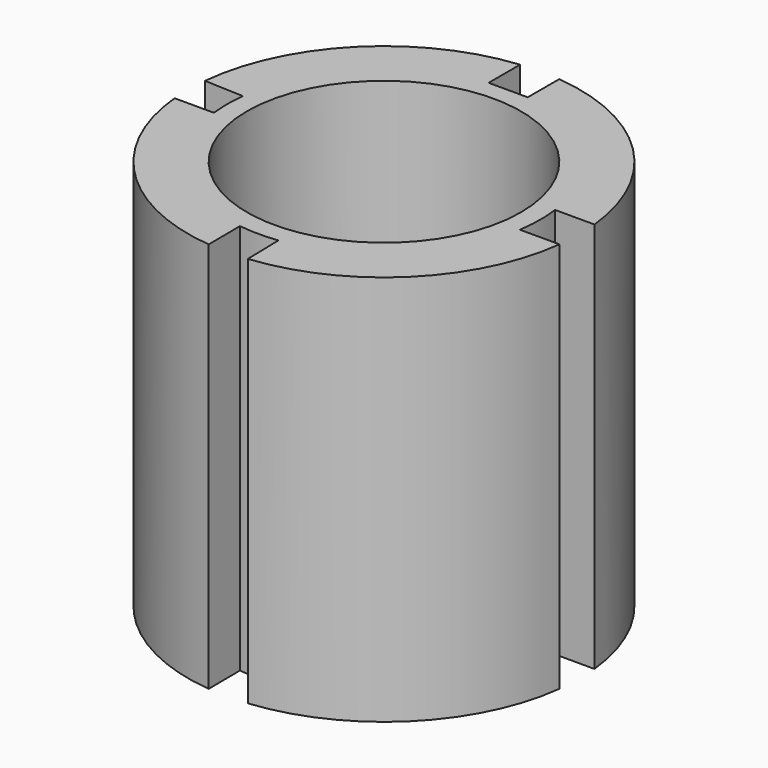
from build123d import *

# Parameters (mm, degrees)
F1_DEPTH = 50
F2_R     = 35
F3_DEPTH = 200


with BuildPart() as f1:
    # F0 (on Top) → F1 (new body, symmetric)
    with BuildSketch(Plane.XY):
        with BuildLine():
            Line((5, 39.68627), (-5, 39.68627))
            ThreePointArc((-5, 39.68627), (-28.427655, 28.140156), (-39.735042, 4.596351))
            ThreePointArc((-39.735042, 4.596351), (-39.999989, -0.030145), (-39.728069, -4.656237))
            ThreePointArc((-39.728069, -4.656237), (-28.434455, -28.133286), (-5.078989, -39.676238))
            ThreePointArc((-5.078989, -39.676238), (-0.14475, -39.999738), (4.791701, -39.711958))
            ThreePointArc((4.791701, -39.711958), (27.854373, -28.707732), (39.54933, -5.987525))
            ThreePointArc((39.54933, -5.987525), (39.997358, -0.45972), (39.676503, 5.076922))
            ThreePointArc((39.676503, 5.076922), (28.256844, 28.311672), (5, 39.68627))
        make_face()
        with BuildLine():
            ThreePointArc((-39.735042, 4.596351), (-28.427655, 28.140156), (-5, 39.68627))
            Line((-5, 39.68627), (-5, 49.749372))
            ThreePointArc((-5, 49.749372), (-35.355339, 35.355339), (-49.749372, 5))
            Line((-49.749372, 5), (-39.735042, 4.596351))
        make_face()
        with BuildLine():
            Line((5, 49.749372), (5, 39.68627))
            ThreePointArc((5, 39.68627), (28.256844, 28.311672), (39.676503, 5.076922))
            Line((39.676503, 5.076922), (49.741581, 5.076922))
            ThreePointArc((49.741581, 5.076922), (35.327993, 35.382664), (5, 49.749372))
        make_face()
        with BuildLine():
            ThreePointArc((-5.078989, -39.676238), (-28.434455, -28.133286), (-39.728069, -4.656237))
            Line((-39.728069, -4.656237), (-49.782722, -4.656237))
            ThreePointArc((-49.782722, -4.656237), (-35.477237, -35.233019), (-5, -49.749372))
            Line((-5, -49.749372), (-5.078989, -39.676238))
        make_face()
        with BuildLine():
            Line((49.640201, -5.987525), (39.54933, -5.987525))
            ThreePointArc((39.54933, -5.987525), (27.854373, -28.707732), (4.791701, -39.711958))
            Line((4.791701, -39.711958), (5, -49.749372))
            ThreePointArc((5, -49.749372), (35.002324, -35.704864), (49.640201, -5.987525))
        make_face()
    extrude(amount=F1_DEPTH, both=True)

    # F2 (on face) → F3 (cut)
    with BuildSketch(Plane.XY.offset(50)):
        Circle(F2_R)
    extrude(amount=-F3_DEPTH, mode=Mode.SUBTRACT)


solid = f1.part
